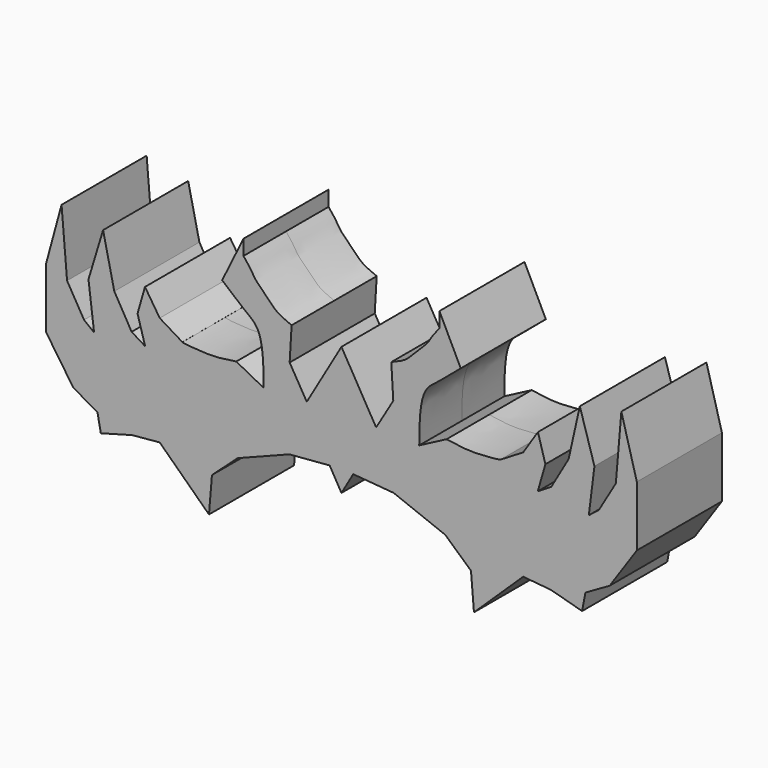
from build123d import *

# Parameters (mm, degrees)
F1_DEPTH = 12.7
F2_DEPTH = 12.7


with BuildPart() as f1:
    # F0 (on Front) → F1 (new body)
    with BuildSketch(Plane.XZ):
        with BuildLine():
            Line((8.2811145112, 1.2285960838), (0, 15.4874408618))
            Line((0, 15.4874408618), (-8.2811145112, 1.2285960838))
            Line((-8.2811145112, 1.2285960838), (-12.3727992177, 8.1617282704))
            Line((-12.3727992177, 8.1617282704), (-11.9023714215, 16.1495022476))
            add(Edge.make_bspline(
                [(-11.9023714215, 16.1495022476), (-13.1613517272, 16.6548575419), (-15.5670384726, 17.6205013473), (-17.5333922375, 20.1015797679), (-20.5609874273, 22.6867834573), (-21.4873396412, 24.6462285212), (-22.7265176962, 26.164892306), (-23.3956482261, 26.9849393517)],
                knots=[0, 0, 0, 0, 0.2204500858, 0.4212407827, 0.6411829959, 0.8062462362, 1, 1, 1, 1], degree=3))
            Line((-23.3956482261, 26.9849393517), (-23.3956482261, 30.6120049208))
            Line((-23.3956482261, 30.6120049208), (-28.4874904901, 20.2190671116))
            add(Edge.make_bspline(
                [(-28.4874904901, 20.2190671116), (-26.7351245713, 18.6815123537), (-23.471648253, 15.8180844094), (-18.698489342, 12.765512723), (-18.619259599, 5.307731901), (-18.5713469982, 0.7977882633)],
                knots=[0, 0, 0, 0, 0.3143060786, 0.5853403295, 1, 1, 1, 1], degree=3))
            Line((-18.5713469982, 0.7977882633), (-25.1141153276, 4.229309503))
            add(Edge.make_bspline(
                [(-25.1141153276, 4.229309503), (-27.2113543103, 3.8803000814), (-31.2175880029, 3.2136076751), (-38.0307467331, 4.0171950636), (-37.9710688228, 4.111548475), (-37.9713065922, 4.1118925437)],
                knots=[0, 0, 0, 0, 0.5026791859, 0.9602388224, 0.9760311652, 0.9760311652, 0.9760311652, 0.9760311652], degree=3))
            Line((-37.9713065922, 4.1118925437), (-43.4008166194, 7.4114357121))
            Line((-43.4008166194, 7.4114357121), (-46.9205416739, 12.8263989463))
            Line((-46.9205416739, 12.8263989463), (-48.6997440457, 6.6378694028))
            Line((-48.6997440457, 6.6378694028), (-46.8862317502, 0.3569243418))
            Line((-46.8862317502, 0.3569243418), (-50.1090995967, 2.34253495))
            Line((-50.1090995967, 2.34253495), (-54.2478188872, 9.5133557916))
            Line((-54.2478188872, 9.5133557916), (-56.9247491658, 21.5117353946))
            Line((-56.9247491658, 21.5117353946), (-60.4143179953, 10.0391805172))
            Line((-60.4143179953, 10.0391805172), (-59.0758509934, -0.716338749))
            Line((-59.0758509934, -0.716338749), (-61.4659674466, 1.1479511159))
            Line((-61.4659674466, 1.1479511159), (-65.5291676521, 8.0792857334))
            Line((-65.5291676521, 8.0792857334), (-66.8426156044, 23.612709716))
            Line((-66.8426156044, 23.612709716), (-70.5394372344, 10.0391805172))
            Line((-70.5394372344, 10.0391805172), (-70.5394372344, -4.383392632))
            Line((-70.5394372344, -4.383392632), (-64.0365630388, -13.9240529388))
            Line((-64.0365630388, -13.9240529388), (-58.2605600357, -17.2362215817))
            Line((-58.2605600357, -17.2362215817), (-57.4691556394, -21.3832873851))
            Line((-57.4691556394, -21.3832873851), (-50.0076673925, -19.3392392248))
            Line((-50.0076673925, -19.3392392248), (-43.4008166194, -18.7325309962))
            Line((-43.4008166194, -18.7325309962), (-31.6388532519, -30.0529096276))
            Line((-31.6388532519, -30.0529096276), (-30.9283062816, -21.5263534337))
            Line((-30.9283062816, -21.5263534337), (-24.7964542359, -15.9849915653))
            Line((-24.7964542359, -15.9849915653), (-12.4508133158, -11.1685302109))
            Line((-12.4508133158, -11.1685302109), (-2.8095340822, -10.3738503531))
            Line((-2.8095340822, -10.3738503531), (0, -15.2332289144))
            Line((0, -15.2332289144), (2.8095340822, -10.3738503531))
            Line((2.8095340822, -10.3738503531), (12.4508133158, -11.1685302109))
            Line((12.4508133158, -11.1685302109), (24.7964542359, -15.9849915653))
            Line((24.7964542359, -15.9849915653), (30.9283062816, -21.5263534337))
            Line((30.9283062816, -21.5263534337), (31.6388532519, -30.0529096276))
            Line((31.6388532519, -30.0529096276), (43.4008166194, -18.7325309962))
            Line((43.4008166194, -18.7325309962), (50.0076673925, -19.3392392248))
            Line((50.0076673925, -19.3392392248), (57.4691556394, -21.3832873851))
            Line((57.4691556394, -21.3832873851), (58.2605600357, -17.2362215817))
            Line((58.2605600357, -17.2362215817), (64.0365630388, -13.9240529388))
            Line((64.0365630388, -13.9240529388), (70.5394372344, -4.383392632))
            Line((70.5394372344, -4.383392632), (70.5394372344, 10.0391805172))
            Line((70.5394372344, 10.0391805172), (66.8426156044, 23.612709716))
            Line((66.8426156044, 23.612709716), (65.5291676521, 8.0792857334))
            Line((65.5291676521, 8.0792857334), (61.4659674466, 1.1479511159))
            Line((61.4659674466, 1.1479511159), (59.0758509934, -0.716338749))
            Line((59.0758509934, -0.716338749), (60.4143179953, 10.0391805172))
            Line((60.4143179953, 10.0391805172), (56.9247491658, 21.5117353946))
            Line((56.9247491658, 21.5117353946), (54.2478188872, 9.5133557916))
            Line((54.2478188872, 9.5133557916), (50.1090995967, 2.34253495))
            Line((50.1090995967, 2.34253495), (46.8862317502, 0.3569243418))
            Line((46.8862317502, 0.3569243418), (48.6997440457, 6.6378694028))
            Line((48.6997440457, 6.6378694028), (46.9205416739, 12.8263989463))
            Line((46.9205416739, 12.8263989463), (43.4008166194, 7.4114357121))
            Line((43.4008166194, 7.4114357121), (37.9713065922, 4.1118925437))
            add(Edge.make_bspline(
                [(25.1141153276, 4.229309503), (27.2113543103, 3.8803000814), (31.2175880029, 3.2136076751), (38.0307467331, 4.0171950636), (37.9710688228, 4.111548475), (37.9713065922, 4.1118925437)],
                knots=[0, 0, 0, 0, 0.5026791859, 0.9602388224, 0.9760311652, 0.9760311652, 0.9760311652, 0.9760311652], degree=3))
            Line((25.1141153276, 4.229309503), (18.5713469982, 0.7977882633))
            add(Edge.make_bspline(
                [(28.4874904901, 20.2190671116), (26.7351245713, 18.6815123537), (23.471648253, 15.8180844094), (18.698489342, 12.765512723), (18.619259599, 5.307731901), (18.5713469982, 0.7977882633)],
                knots=[0, 0, 0, 0, 0.3143060786, 0.5853403295, 1, 1, 1, 1], degree=3))
            Line((28.4874904901, 20.2190671116), (23.3956482261, 30.6120049208))
            Line((23.3956482261, 30.6120049208), (23.3956482261, 26.9849393517))
            add(Edge.make_bspline(
                [(11.9023714215, 16.1495022476), (13.1613517272, 16.6548575419), (15.5670384726, 17.6205013473), (17.5333922375, 20.1015797679), (20.5609874273, 22.6867834573), (21.4873396412, 24.6462285212), (22.7265176962, 26.164892306), (23.3956482261, 26.9849393517)],
                knots=[0, 0, 0, 0, 0.2204500858, 0.4212407827, 0.6411829959, 0.8062462362, 1, 1, 1, 1], degree=3))
            Line((11.9023714215, 16.1495022476), (12.3727992177, 8.1617282704))
            Line((12.3727992177, 8.1617282704), (8.2811145112, 1.2285960838))
        make_face()
    extrude(amount=F1_DEPTH)

    # F2 (add): a face of the model
    f2_faces = [f1.faces().sort_by_distance(p)[0] for p in [
        (0, 0, -2.9396699917),
    ]]
    extrude(f2_faces, amount=F2_DEPTH)


solid = f1.part
